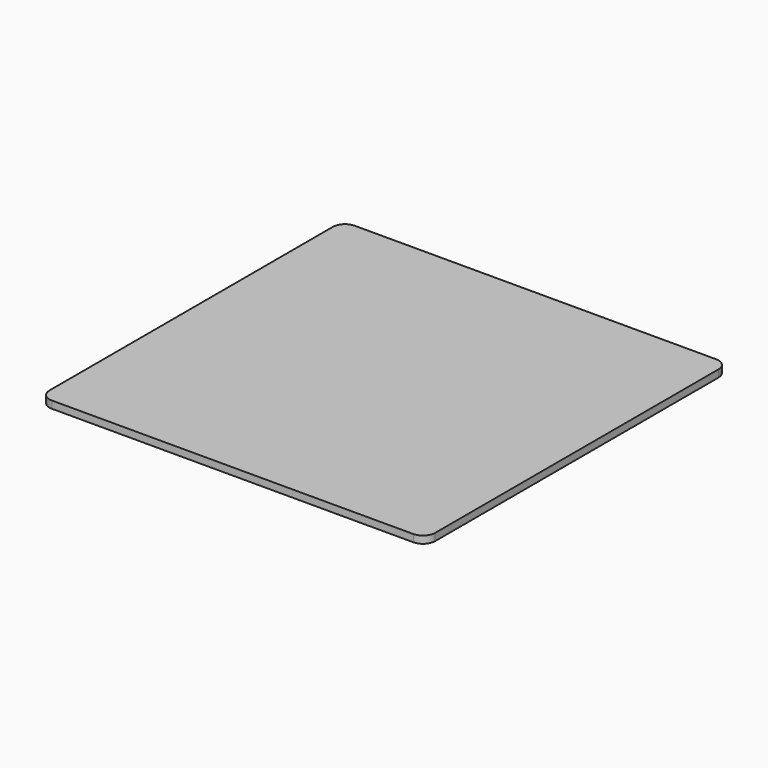
from build123d import *

# Parameters (mm, degrees)
SKETCH_W     = 31.83
SKETCH_H     = 31.24
PAD_DEPTH    = 1.5
FILLET_R     = 1
POCKET_DEPTH = 0.9
SKETCH028_W  = 28
SKETCH028_H  = 27
PAD021_DEPTH = 0.8


with BuildPart() as part:
    # Sketch → Pad (new body)
    with BuildSketch(Plane(origin=(0, 0, 0), x_dir=(-1, 0, 0), z_dir=(0, 0, -1))):
        with Locations((-16.895, 25.69)):
            Rectangle(SKETCH_W, SKETCH_H)
    extrude(amount=PAD_DEPTH)

    # Fillet
    fillet_edges = [part.edges().sort_by_distance(p)[0] for p in [
        (32.81, 41.31, -0.75),
        (0.98, 41.31, -0.75),
        (0.98, 10.07, -0.75),
        (32.81, 10.07, -0.75),
    ]]
    fillet(fillet_edges, radius=FILLET_R)

    # Fillet Face2 → Pocket (cut)
    with BuildSketch(Plane(origin=(16.895, 25.69, 0), x_dir=(0, 1, 0), z_dir=(0, 0, 1))):
        with BuildLine():
            Line((15.62, -14.915), (15.62, 14.915))
            ThreePointArc((15.62, 14.915), (15.327107, 15.622107), (14.62, 15.915))
            Line((14.62, 15.915), (-14.62, 15.915))
            ThreePointArc((-14.62, 15.915), (-15.327107, 15.622107), (-15.62, 14.915))
            Line((-15.62, 14.915), (-15.62, -14.915))
            ThreePointArc((-15.62, -14.915), (-15.327107, -15.622107), (-14.62, -15.915))
            Line((-14.62, -15.915), (14.62, -15.915))
            ThreePointArc((14.62, -15.915), (15.327107, -15.622107), (15.62, -14.915))
        make_face()
    extrude(amount=-POCKET_DEPTH, mode=Mode.SUBTRACT)

    # Sketch028 (on Face4 of Pocket) → Pad021 (join)
    with BuildSketch(Plane(origin=(0, 0, -1.5), x_dir=(1, 0, 0), z_dir=(0, 0, -1))):
        with Locations((17, -25.8)):
            Rectangle(SKETCH028_W, SKETCH028_H)
    extrude(amount=PAD021_DEPTH)


solid = part.part
